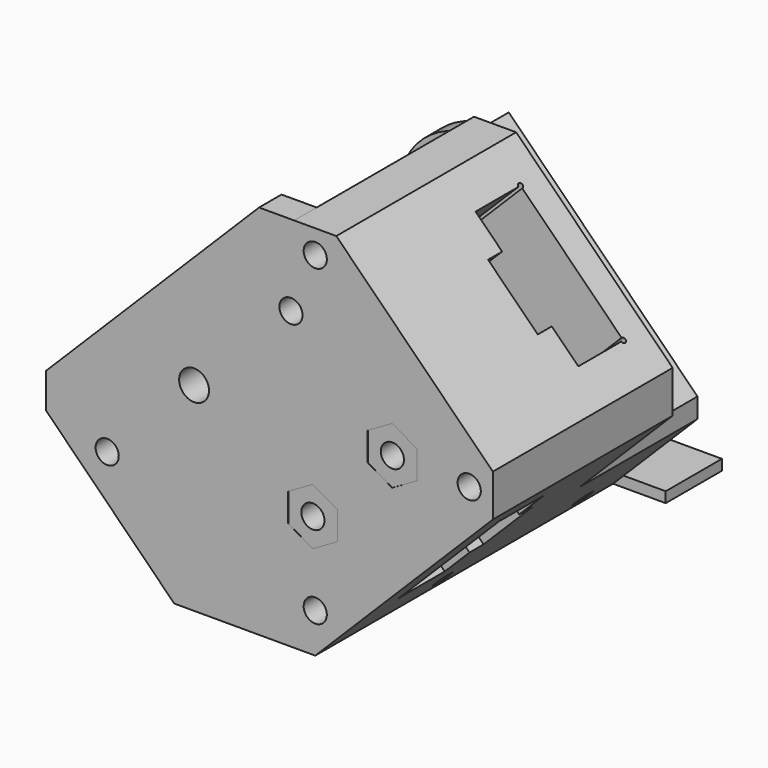
from build123d import *

# Parameters (mm, degrees)
PAD_DEPTH            = 53
POCKET_DEPTH         = 42.1223203436
SKETCH021_W          = 20
SKETCH021_H          = 20
POCKET002_DEPTH      = 10
POCKET002_DEPTH_BACK = 2
POCKET003_DEPTH      = 43.1985919755
POCKET004_DEPTH      = 21
POCKET005_START      = -11
POCKET005_DEPTH      = 11
SKETCH017_R          = 1.375
POCKET006_DEPTH      = 3.001
SKETCH025_R          = 1.4
POCKET007_DEPTH      = 10
SKETCH004_R          = 1.75
POCKET008_DEPTH      = 9
PAD001_DEPTH         = 6
SKETCH024_R          = 1.65
POCKET009_DEPTH      = 11
SKETCH008_R          = 0.75
POCKET010_DEPTH      = 57.001
SKETCH003_R          = 1.65
POCKET011_DEPTH      = 10
POCKET012_DEPTH      = 0.02
POCKET013_DEPTH      = 5
PAD002_DEPTH         = 3
SKETCH037_W          = 25.023712
SKETCH037_H          = 11.208293
POCKET014_DEPTH      = 40
PAD003_DEPTH         = 10
PAD004_DEPTH         = 4
SKETCH040_R          = 1.65
POCKET015_DEPTH      = 63.001
SKETCH041_R          = 1.15
POCKET016_DEPTH      = 6
POCKET017_DEPTH      = 53.001
SKETCH043_R          = 2.125
POCKET018_DEPTH      = 37
BODY_ROLL_ANGLE      = 90
BODY_PITCH_ANGLE     = -45


with BuildPart() as part:
    # Sketch → Pad (new body)
    with BuildSketch(Plane.XY):
        with BuildLine():
            Line((20, 15.7573593129), (20, -15.7573593129))
            Line((15.7573593129, -20), (20, -15.7573593129))
            Line((15.7573593129, -20), (-20, -20))
            Line((-22.1213203436, -17.8786796564), (-20, -20))
            Line((-20, -15.7573593129), (-22.1213203436, -17.8786796564))
            Line((-20, -15.7573593129), (-20, 19.9514573998))
            ThreePointArc((-4.4437265511, 20), (-12.2319167772, 23.1975384212), (-20, 19.9514573998))
            Line((-4.4437265511, 20), (15.7573593129, 20))
            Line((15.7573593129, 20), (20, 15.7573593129))
        make_face()
    extrude(amount=-PAD_DEPTH)

    # Sketch001 (on Face3 of Pad) → Pocket (cut, through all)
    with BuildSketch(Plane.YZ.offset(20)):
        with BuildLine():
            Line((-10.35, -27.65), (-10.35, -20.0000000156))
            Line((-10.35, -20.0000000156), (-5, -20.0000000156))
            Line((-5, -20.0000000156), (-5, -17.5000000156))
            Line((5, -17.5000000156), (-5, -17.5000000156))
            Line((5, -17.5000000156), (5, -20.0000000156))
            Line((5, -20.0000000156), (10.3495, -20.0000000156))
            Line((10.3495, -27.6500003571), (10.3495, -20.0000000156))
            ThreePointArc((10, -28), (10.597664087, -28.2473105335), (10.3495, -27.6500003571))
            Line((10, -28), (-10, -28))
            ThreePointArc((-10.35, -27.65), (-10.5974873734, -28.2474873734), (-10, -28))
        make_face()
    extrude(amount=-POCKET_DEPTH, mode=Mode.SUBTRACT)

    # Sketch021 → Pocket002 (cut, two sides)
    with BuildSketch(Plane.XY.offset(-12)) as pocket002_sk:
        Rectangle(SKETCH021_W, SKETCH021_H)
    extrude(amount=-POCKET002_DEPTH, mode=Mode.SUBTRACT)
    extrude(pocket002_sk.sketch, amount=POCKET002_DEPTH_BACK, mode=Mode.SUBTRACT)

    # Sketch019 (on Face9 of Pocket002) → Pocket003 (cut, through all)
    with BuildSketch(Plane.XZ.offset(20)):
        with BuildLine():
            Line((-9.75, -6.2), (9.75, -6.2))
            ThreePointArc((10, -6.45), (10.1767766953, -6.0232233047), (9.75, -6.2))
            Line((10, -14.2), (10, -6.45))
            Line((10, -14.2), (5, -14.2))
            Line((5, -14.2), (5, -16.7))
            Line((5, -16.7), (-5, -16.7))
            Line((-5, -16.7), (-5, -14.2))
            Line((-5, -14.2), (-10, -14.2))
            Line((-10, -14.2), (-10, -6.45))
            ThreePointArc((-9.75, -6.2), (-10.1767766953, -6.0232233047), (-10, -6.45))
        make_face()
    extrude(amount=-POCKET003_DEPTH, mode=Mode.SUBTRACT)

    # Sketch026 (on Face4 of Pocket003) → Pocket004 (cut)
    with BuildSketch(Plane(origin=(0, 0, -53), x_dir=(1, 0, 0), z_dir=(0, 0, -1))):
        Polygon((29.464805, 27.898094), (28.220922, -23.4244643541), (-1.0000135373, -23.4244643541), (-1, 18), (-14.2089497024, 31.2089497024), align=None)
    extrude(amount=-POCKET004_DEPTH, mode=Mode.SUBTRACT)

    # Sketch022 (on Face31 of Pocket004) → Pocket005 (cut)
    with BuildSketch(Plane.XY.offset(-28).offset(POCKET005_START)):
        with BuildLine():
            ThreePointArc((-17.888371, 4.124251), (-16.1913147252, 4.8271947252), (-15.488371, 6.524251))
            Line((-15.488371, 6.524251), (-15.488371, 7.524251))
            Line((-17.817187, 9.853067), (-15.488371, 7.524251))
            Line((-17.817187, 9.853067), (-17.817187, 15.430706))
            ThreePointArc((-17.817187, 15.430706), (-16.1201307252, 16.1336497252), (-15.417187, 17.830706))
            Line((-15.417187, 17.830706), (-8.98192, 17.830706))
            ThreePointArc((-8.98192, 17.830706), (-6.58192, 15.430706), (-4.18192, 17.830706))
            Line((-4.18192, 23.830706), (-4.18192, 17.830706))
            Line((-22.268371, 23.830706), (-4.18192, 23.830706))
            Line((-22.268371, 4.124251), (-22.268371, 23.830706))
            Line((-22.268371, 4.124251), (-17.888371, 4.124251))
        make_face()
    extrude(amount=-POCKET005_DEPTH, mode=Mode.SUBTRACT)

    # Sketch017 (on Face8 of Pocket005) → Pocket006 (cut, through all)
    with BuildSketch(Plane.XY.offset(-50)):
        with Locations((-6.540737726, 17.854446225)):
            Circle(SKETCH017_R)
        with Locations((-17.854446225, 6.540737726)):
            Circle(SKETCH017_R)
        with Locations((-17.854446225, 17.854446225)):
            Circle(SKETCH017_R)
    extrude(amount=-POCKET006_DEPTH, mode=Mode.SUBTRACT)

    # Sketch025 (on Face6 of Pocket006) → Pocket007 (cut)
    with BuildSketch(Plane(origin=(0, 0, -53), x_dir=(1, 0, 0), z_dir=(0, 0, -1))):
        with Locations((-12.2, 7.8)):
            Circle(SKETCH025_R)
    extrude(amount=-POCKET007_DEPTH, mode=Mode.SUBTRACT)

    # Sketch004 (on Face4 of Pocket004) → Pocket008 (cut)
    with BuildSketch(Plane(origin=(0, 0, -32), x_dir=(1, 0, 0), z_dir=(0, 0, -1))):
        with Locations((8, 7.5)):
            Circle(SKETCH004_R)
        with Locations((8, -7.5)):
            Circle(SKETCH004_R)
    extrude(amount=-POCKET008_DEPTH, mode=Mode.SUBTRACT)

    # Sketch007 (on Face2 of Pocket008) → Pad001 (join)
    with BuildSketch(Plane.XY):
        Polygon((-20, -20), (15.757359, -20), (20, -15.757359), (20, 15.757359), (15.757359, 20), (-34.1975919755, 20), (-34.1975919755, -5.8024080245), align=None)
    extrude(amount=-PAD001_DEPTH)

    # Sketch024 → Pocket009 (cut)
    with BuildSketch(Plane.XY.offset(4)):
        with Locations((7.3024080245, 12.1975919755)):
            Circle(SKETCH024_R)
        with Locations((-29.6975919755, 12.1975919755)):
            Circle(SKETCH024_R)
    extrude(amount=-POCKET009_DEPTH, mode=Mode.SUBTRACT)

    # Sketch008 → Pocket010 (cut, through all)
    with BuildSketch(Plane.XY.offset(4)):
        with Locations((-12.1975919755, 12.1975919755)):
            Circle(SKETCH008_R)
    extrude(amount=-POCKET010_DEPTH, mode=Mode.SUBTRACT)

    # Sketch003 (on Face2 of Pocket010) → Pocket011 (cut)
    with BuildSketch(Plane.XY):
        with Locations((-8, -7.5)):
            Circle(SKETCH003_R)
        with Locations((8, -7.5)):
            Circle(SKETCH003_R)
    extrude(amount=-POCKET011_DEPTH, mode=Mode.SUBTRACT)

    # Sketch036 (on Face2 of Pocket011) → Pocket012 (cut)
    with BuildSketch(Plane.XY):
        Polygon((11.9037427508, -8.5460047175), (10.8577380332, -4.6422619668), (6.9539952825, -3.5962572492), (4.0962572492, -6.4539952825), (5.1422619668, -10.3577380332), (9.0460047175, -11.4037427508), align=None)
        Polygon((-5.1422619668, -4.6422619668), (-9.0460047175, -3.5962572492), (-11.9037427508, -6.4539952825), (-10.8577380332, -10.3577380332), (-6.9539952825, -11.4037427508), (-4.0962572492, -8.5460047175), align=None)
    extrude(amount=-POCKET012_DEPTH, mode=Mode.SUBTRACT)

    # Sketch033 → Pocket013 (cut)
    with BuildSketch(Plane.XZ.offset(20)):
        Polygon((-15.7, -20.7505553499), (-15.7, -19.2494446501), (-17, -18.4988893001), (-18.3, -19.2494446501), (-18.3, -20.7505553499), (-17, -21.5011106999), align=None)
        Polygon((-15.7, -44.2494446501), (-17, -43.4988893001), (-18.3, -44.2494446501), (-18.3, -45.7505553499), (-17, -46.5011106999), (-15.7, -45.7505553499), align=None)
    extrude(amount=-POCKET013_DEPTH, mode=Mode.SUBTRACT)

    # Sketch035 → Pad002 (join)
    with BuildSketch(Plane(origin=(0, 0, -53), x_dir=(1, 0, 0), z_dir=(0, 0, -1))):
        Polygon((-22.779, 17.221), (-22.779, -17.1724573998), (-20, -19.9514573998), (-20, 20), align=None)
    extrude(amount=-PAD002_DEPTH)

    # Sketch037 → Pocket014 (cut)
    with BuildSketch(Plane.XY):
        with Locations((-13.772916, 25.6041465)):
            Rectangle(SKETCH037_W, SKETCH037_H)
    extrude(amount=-POCKET014_DEPTH, mode=Mode.SUBTRACT)

    # Sketch029 → Pad003 (join)
    with BuildSketch(Plane(origin=(0, 0, -53), x_dir=(1, 0, 0), z_dir=(0, 0, -1))):
        Polygon((-13.6360389693, 24.2426406871), (-24.2426406871, 13.6360389693), (-25.3033008589, 14.6966991411), (-14.6966991411, 25.3033008589), align=None)
    extrude(amount=PAD003_DEPTH)

    # Sketch039 (on Face2 of Pad003) → Pad004 (join)
    with BuildSketch(Plane.XY):
        Polygon((-30.6620580697, 23.5355339059), (12.2218254069, 23.5355339059), (15.7573593129, 20), (-34.1975919755, 20), align=None)
    extrude(amount=-PAD004_DEPTH)

    # Sketch040 (on Face29 of Pad004) → Pocket015 (cut, through all)
    with BuildSketch(Plane.XY):
        with Locations((15.5, -15.5)):
            Circle(SKETCH040_R)
        with Locations((15.5, 15.5)):
            Circle(SKETCH040_R)
        with Locations((-16, -16)):
            Circle(SKETCH040_R)
    extrude(amount=-POCKET015_DEPTH, mode=Mode.SUBTRACT)

    # Sketch041 (on Face33 of Pocket015) → Pocket016 (cut)
    with BuildSketch(Plane(origin=(-1.0000058823, -3.268e-07, 0), x_dir=(-3.268e-07, 1, 0), z_dir=(1, 3.268e-07, 0))):
        with Locations((16, -36)):
            Circle(SKETCH041_R)
        with Locations((-16, -36)):
            Circle(SKETCH041_R)
    extrude(amount=-POCKET016_DEPTH, mode=Mode.SUBTRACT)

    # Sketch042 (on Face34 of Pocket016) → Pocket017 (cut, through all)
    with BuildSketch(Plane(origin=(0, 0, -53), x_dir=(1, 0, 0), z_dir=(0, 0, -1))):
        Polygon((-13.3547005384, -12.2), (-12.7773502692, -13.2), (-11.6226497308, -13.2), (-11.0452994616, -12.2), (-11.6226497308, -11.2), (-12.7773502692, -11.2), align=None)
    extrude(amount=-POCKET017_DEPTH, mode=Mode.SUBTRACT)

    # Sketch043 (on Face29 of Pocket017) → Pocket018 (cut)
    with BuildSketch(Plane.XY):
        with Locations((-12.2, 12.2)):
            Circle(SKETCH043_R)
    extrude(amount=-POCKET018_DEPTH, mode=Mode.SUBTRACT)


with BuildPart() as part_1:
    # Body roll: moved
    add(part.part.rotate(Axis((0, 0, 0), (1, 0, 0)), BODY_ROLL_ANGLE))


with BuildPart() as part_2:
    # Body pitch: moved
    add(part_1.part.rotate(Axis((0, 0, 0), (0, 1, 0)), BODY_PITCH_ANGLE))


with BuildPart() as part_3:
    # Body placement: moved
    add(part_2.part)


solid = part_3.part
